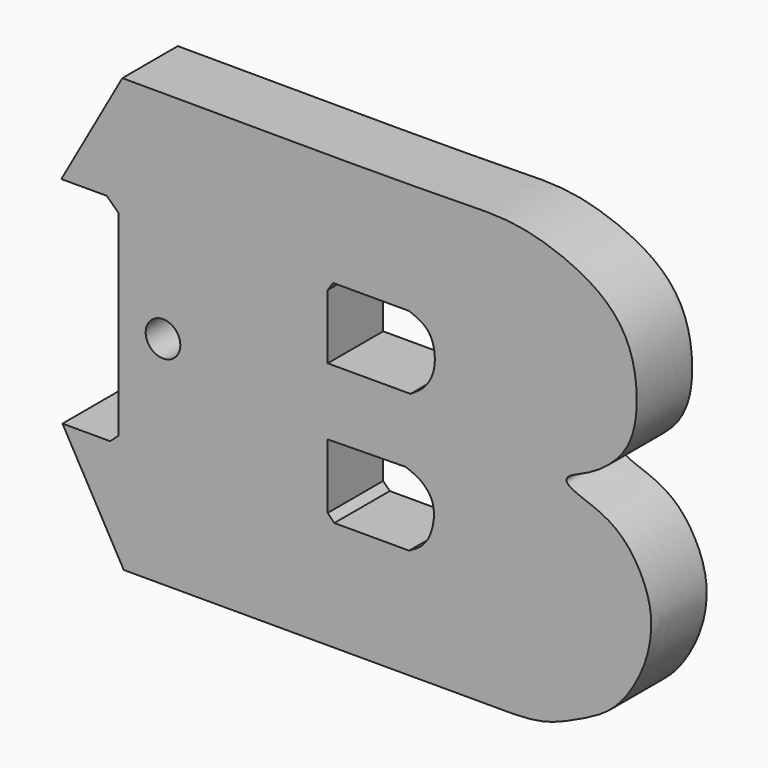
from build123d import *

# Parameters (mm, degrees)
F0_R     = 1
F1_DEPTH = 4


with BuildPart() as f1:
    # F0 (on Front) → F1 (new body)
    with BuildSketch(Plane.XZ):
        with BuildLine():
            add(Edge.make_bspline(
                [(-16.3302050096, -6.1951922395), (-15.1511635759, -8.2913288918), (-13.9721221423, -10.3874655441), (-12.7930807086, -12.4836021964)],
                knots=[0, 0, 0, 0, 7.214939231, 7.214939231, 7.214939231, 7.214939231], degree=3))
            Line((-12.7930807086, -12.4836021964), (9.7494664592, -12.4836021964))
            add(Edge.make_bspline(
                [(9.7494664592, -12.4836021964), (10.32010266, -12.4596476829), (11.524388393, -12.4090934439), (13.5110688002, -11.52411488), (15.4089080657, -10.5614948841), (16.7469456181, -8.7915452766), (17.6031595134, -6.78234347), (17.7943100047, -4.3868464158), (16.5723430452, -1.8368213193), (14.8689164335, -0.5107853469), (12.7202615994, 0.0446005977), (12.7699740664, 0.7124862946), (14.2768133434, 1.160434083), (16.5637075767, 2.9650204395), (16.9843867368, 6.0206408776), (16.3962958347, 8.95796727), (14.2498338616, 11.1243941376), (10.0462304971, 12.6458375624), (5.6271732073, 12.4090714279), (-5.3933367483, 12.4548625739), (-12.8726808417, 12.4859398779)],
                knots=[0, 0, 0, 0, 0.0436281153, 0.0920739287, 0.1401577302, 0.1885857089, 0.2371030407, 0.2876425144, 0.3417623471, 0.3916286287, 0.4380272683, 0.4574517029, 0.4966659345, 0.5522965785, 0.6090782942, 0.6649452134, 0.7214226065, 0.7883948626, 0.856388893, 1, 1, 1, 1], degree=3))
            add(Edge.make_bspline(
                [(-12.8726808417, 12.4859398779), (-14.0471812102, 10.3937038506), (-15.2216815787, 8.3014678233), (-16.3961819472, 6.209231796)],
                knots=[0, 0, 0, 0, 7.1980639331, 7.1980639331, 7.1980639331, 7.1980639331], degree=3))
            add(Edge.make_bspline(
                [(-16.3961819472, 6.209231796), (-15.5231010937, 6.209231796), (-14.6500202402, 6.209231796), (-13.7769393867, 6.209231796)],
                knots=[0, 0, 0, 0, 2.6192425605, 2.6192425605, 2.6192425605, 2.6192425605], degree=3))
            add(Edge.make_bspline(
                [(-13.7769393867, 6.209231796), (-13.5451374425, 5.9884086129), (-13.3133354982, 5.7675854298), (-13.081533554, 5.5467622467)],
                knots=[0, 0, 0, 0, 0.9604453008, 0.9604453008, 0.9604453008, 0.9604453008], degree=3))
            add(Edge.make_bspline(
                [(-13.081533554, 5.5467622467), (-13.081533554, 1.7814577432), (-13.081533554, -1.9838467604), (-13.081533554, -5.7491512639)],
                knots=[0, 0, 0, 0, 11.2959135106, 11.2959135106, 11.2959135106, 11.2959135106], degree=3))
            add(Edge.make_bspline(
                [(-13.081533554, -5.7491512639), (-13.2466792152, -5.8978315891), (-13.4118248764, -6.0465119143), (-13.5769705377, -6.1951922395)],
                knots=[0, 0, 0, 0, 0.6666411003, 0.6666411003, 0.6666411003, 0.6666411003], degree=3))
            add(Edge.make_bspline(
                [(-13.5769705377, -6.1951922395), (-14.4947153616, -6.1951922395), (-15.4124601856, -6.1951922395), (-16.3302050096, -6.1951922395)],
                knots=[0, 0, 0, 0, 2.753234472, 2.753234472, 2.753234472, 2.753234472], degree=3))
        make_face()
        with BuildLine():
            Line((-1.0194473687, -5.7556127145), (-1.0194473687, -2.0185159171))
            Line((-1.0194473687, -2.0185159171), (3.4669161374, -1.9537109065))
            add(Edge.make_bspline(
                [(3.6816239957, -6.1444433389), (3.9855384977, -5.9758217346), (4.6222384181, -5.622560007), (5.1452751146, -4.4353922591), (5.1412133863, -3.0780826975), (4.2914179737, -2.2491393422), (3.730709868, -2.0482312165), (3.4669161374, -1.9537109065)],
                knots=[0, 0, 0, 0, 0.1941553762, 0.4067548991, 0.6234544821, 0.8228483843, 1, 1, 1, 1], degree=3))
            Line((3.6816239957, -6.1444433389), (-0.6374097545, -6.1444433389))
            Line((-0.6374097545, -6.1444433389), (-1.0194473687, -5.7556127145))
        make_face(mode=Mode.SUBTRACT)
        with Locations((-10.5273813404, 0)):
            Circle(F0_R, mode=Mode.SUBTRACT)
        with BuildLine():
            Line((-1.0194473687, 1.8470971123), (-1.0194473687, 5.5719896801))
            Line((-1.0194473687, 5.5719896801), (-0.7111804135, 6.0343899375))
            Line((-0.7111804135, 6.0343899375), (3.6816239957, 6.0343899375))
            add(Edge.make_bspline(
                [(3.7586906117, 1.8470971123), (4.0504527954, 2.032467142), (4.6539810501, 2.4159165977), (5.2248584762, 3.5158047538), (5.1504440633, 4.7733814745), (4.6960186519, 5.6205399893), (4.029560729, 5.8924396638), (3.6816239957, 6.0343899375)],
                knots=[0, 0, 0, 0, 0.1963236974, 0.4061077998, 0.619010038, 0.8010971162, 1, 1, 1, 1], degree=3))
            Line((3.7586906117, 1.8470971123), (-1.0194473687, 1.8470971123))
        make_face(mode=Mode.SUBTRACT)
    extrude(amount=F1_DEPTH)


solid = f1.part
